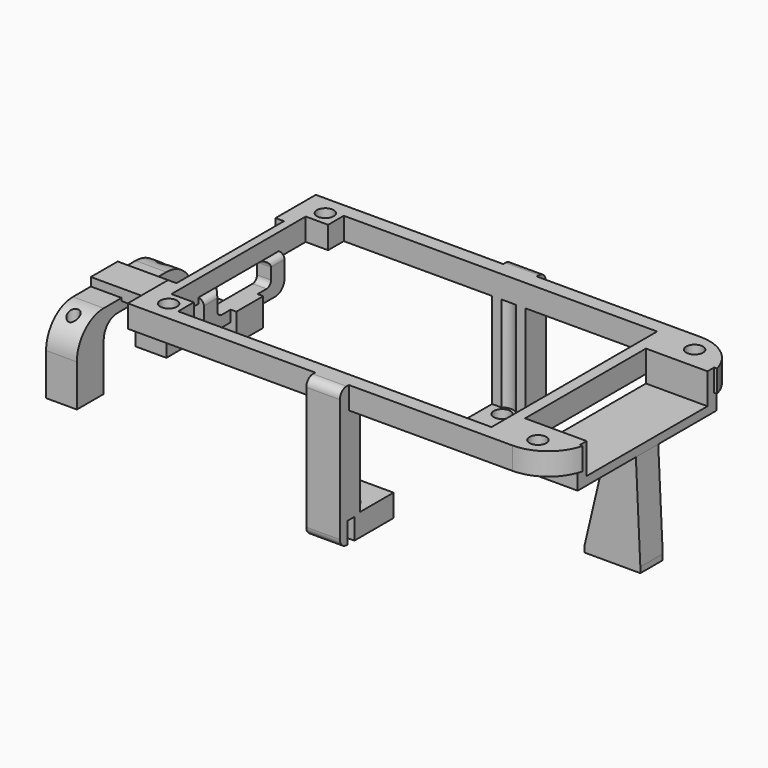
from build123d import *

# Parameters (mm, degrees)
BOX246_W               = 7
BOX246_H               = 1.5
BOX246_DEPTH           = 4.5
BOX244_W               = 7
BOX244_H               = 1.5
BOX244_DEPTH           = 4.5
BOX245_W               = 6
BOX245_H               = 2
BOX245_DEPTH           = 25
FILLET124_R            = 1.5
BOX243_W               = 6
BOX243_H               = 2
BOX243_DEPTH           = 25
FILLET125_R            = 1.5
BOX242_W               = 10
BOX242_H               = 24
BOX242_DEPTH           = 11
BOX148_W               = 10
BOX148_H               = 12
BOX148_DEPTH           = 4
FILLET092_R            = 1
CYLINDER225_R          = 1
CYLINDER225_DEPTH      = 17
BOX132_W               = 10
BOX132_H               = 5
BOX132_DEPTH           = 18
CHAMFER021_1_SIZE2     = 4
CHAMFER021_1_SIZE      = 17
CHAMFER021_2_SIZE2     = 0.8
CHAMFER021_2_SIZE      = 17
BOX116_W               = 56
BOX116_H               = 37
BOX116_DEPTH           = 6
BOX130_W               = 60
BOX130_H               = 30
BOX130_DEPTH           = 6
CYLINDER224_R          = 1.5
CYLINDER224_DEPTH      = 12
BOX131_W               = 12
BOX131_H               = 30
BOX131_DEPTH           = 6
CYLINDER222_R          = 1.5
CYLINDER222_DEPTH      = 12
CYLINDER221_R          = 1.5
CYLINDER221_DEPTH      = 12
CYLINDER223_R          = 1.5
CYLINDER223_DEPTH      = 12
BOX134_W               = 25
BOX134_H               = 45
BOX134_DEPTH           = 6
BOX097_W               = 100
BOX097_H               = 42
BOX097_DEPTH           = 4
FILLET082_R            = 8
CYLINDER226_R          = 1.5
CYLINDER226_DEPTH      = 21
BOX138_W               = 8
BOX138_H               = 10
BOX138_DEPTH           = 21
BOX137_W               = 8
BOX137_H               = 10
BOX137_DEPTH           = 21
CYLINDER228_R          = 2
CYLINDER228_DEPTH      = 21
BOX110_W               = 56
BOX110_H               = 1
BOX110_DEPTH           = 3
BOX136_W               = 6
BOX136_H               = 10
BOX136_DEPTH           = 21
CYLINDER227_R          = 1.5
CYLINDER227_DEPTH      = 21
BOX141_W               = 8
BOX141_H               = 10
BOX141_DEPTH           = 21
BOX140_W               = 8
BOX140_H               = 10
BOX140_DEPTH           = 21
CYLINDER229_R          = 2
CYLINDER229_DEPTH      = 21
BOX139_W               = 56
BOX139_H               = 1
BOX139_DEPTH           = 3
BOX142_W               = 6
BOX142_H               = 10
BOX142_DEPTH           = 21
CUT100_PLACEMENT_ANGLE = 180
BOX143_W               = 14
BOX143_H               = 27
BOX143_DEPTH           = 8
BOX144_W               = 11
BOX144_H               = 31
BOX144_DEPTH           = 7
CYLINDER233_R          = 1
CYLINDER233_DEPTH      = 19
CYLINDER232_R          = 1
CYLINDER232_DEPTH      = 19
BOX152_W               = 8.5
BOX152_H               = 14
BOX152_DEPTH           = 11.5
FILLET095_R            = 3
BOX151_W               = 5.5
BOX151_H               = 26
BOX151_DEPTH           = 13.5
FILLET093_R            = 6
BOX150_W               = 24
BOX150_H               = 6
BOX150_DEPTH           = 2
BOX147_W               = 4
BOX147_H               = 18
BOX147_DEPTH           = 6
FILLET090_R            = 2
BOX149_W               = 5
BOX149_H               = 6
BOX149_DEPTH           = 6
FILLET094_R            = 1


with BuildPart() as obj1:
    # Box246 → Box246 (new body)
    with BuildSketch(Plane(origin=(-12, 19.75, -7.75), x_dir=(1, 0, 0), z_dir=(0, 0, 1))):
        with Locations((3.5, 0.75)):
            Rectangle(BOX246_W, BOX246_H)
    extrude(amount=BOX246_DEPTH)


with BuildPart() as fusion218:
    # Box244 → Box244 (new body)
    with BuildSketch(Plane(origin=(-12, -21.25, -7.75), x_dir=(1, 0, 0), z_dir=(0, 0, 1))):
        with Locations((3.5, 0.75)):
            Rectangle(BOX244_W, BOX244_H)
    extrude(amount=BOX244_DEPTH)

    # Fusion218: union obj1
    add(obj1.part)


with BuildPart() as fillet124:
    # Box245 → Box245 (new body)
    with BuildSketch(Plane(origin=(-11.5, 21, -7), x_dir=(1, 0, 0), z_dir=(0, 0, 1))):
        with Locations((3, 1)):
            Rectangle(BOX245_W, BOX245_H)
    extrude(amount=BOX245_DEPTH)

    # Fillet124
    fillet124_edges = [fillet124.edges().sort_by_distance(p)[0] for p in [
        (-8.5, 23, -7),
        (-8.5, 23, 18),
    ]]
    fillet(fillet124_edges, radius=FILLET124_R)


with BuildPart() as fillet125:
    # Box243 → Box243 (new body)
    with BuildSketch(Plane(origin=(-11.5, -23, -7), x_dir=(1, 0, 0), z_dir=(0, 0, 1))):
        with Locations((3, 1)):
            Rectangle(BOX243_W, BOX243_H)
    extrude(amount=BOX243_DEPTH)

    # Fillet125
    fillet125_edges = [fillet125.edges().sort_by_distance(p)[0] for p in [
        (-8.5, -23, -7),
        (-8.5, -23, 18),
    ]]
    fillet(fillet125_edges, radius=FILLET125_R)


with BuildPart() as obj2:
    # Box242 → Box242 (new body)
    with BuildSketch(Plane(origin=(-53.5, -12, 8), x_dir=(1, 0, 0), z_dir=(0, 0, 1))):
        with Locations((5, 12)):
            Rectangle(BOX242_W, BOX242_H)
    extrude(amount=BOX242_DEPTH)


with BuildPart() as fillet092:
    # Box148 → Box148 (new body)
    with BuildSketch(Plane(origin=(-51, -6, 12), x_dir=(1, 0, 0), z_dir=(0, 0, 1))):
        with Locations((5, 6)):
            Rectangle(BOX148_W, BOX148_H)
    extrude(amount=BOX148_DEPTH)

    # Fillet092
    fillet092_edges = [fillet092.edges().sort_by_distance(p)[0] for p in [
        (-46, -6, 12),
        (-46, -6, 16),
        (-46, 6, 12),
        (-46, 6, 16),
    ]]
    fillet(fillet092_edges, radius=FILLET092_R)


with BuildPart() as fillet092_1:
    # Fillet092 placement: moved
    add(fillet092.part.moved(Location((2, 0, -1))))


with BuildPart() as zylinder225:
    # Cylinder225 → Cylinder225 (new body)
    with BuildSketch(Plane(origin=(28.75, 0, -10), x_dir=(1, 0, 0), z_dir=(0, 0, 1))):
        Circle(CYLINDER225_R)
    extrude(amount=CYLINDER225_DEPTH)


with BuildPart() as cut098:
    # Box132 → Box132 (new body)
    with BuildSketch(Plane(origin=(21.8, -2.5, -7), x_dir=(1, 0, 0), z_dir=(0, 0, 1))):
        with Locations((5, 2.5)):
            Rectangle(BOX132_W, BOX132_H)
    extrude(amount=BOX132_DEPTH)

    # Chamfer021 1
    chamfer021_1_edges = [cut098.edges().sort_by_distance(p)[0] for p in [
        (21.8, 0, 11),
    ]]
    chamfer021_1_side = cut098.faces().sort_by_distance((21.8, 0, 2))[0]
    chamfer(chamfer021_1_edges, length=CHAMFER021_1_SIZE, length2=CHAMFER021_1_SIZE2, reference=chamfer021_1_side)

    # Chamfer021 2
    chamfer021_2_edges = [cut098.edges().sort_by_distance(p)[0] for p in [
        (31.8, 0, 11),
    ]]
    chamfer021_2_side = cut098.faces().sort_by_distance((31.8, 0, 2))[0]
    chamfer(chamfer021_2_edges, length=CHAMFER021_2_SIZE, length2=CHAMFER021_2_SIZE2, reference=chamfer021_2_side)

    # Cut098: cut Zylinder225
    add(zylinder225.part, mode=Mode.SUBTRACT)


with BuildPart() as obj3:
    # Box116 → Box116 (new body)
    with BuildSketch(Plane(origin=(-38, -18.5, 13), x_dir=(1, 0, 0), z_dir=(0, 0, 1))):
        with Locations((28, 18.5)):
            Rectangle(BOX116_W, BOX116_H)
    extrude(amount=BOX116_DEPTH)


with BuildPart() as obj4:
    # Box130 → Box130 (new body)
    with BuildSketch(Plane(origin=(-42, -15, 13), x_dir=(1, 0, 0), z_dir=(0, 0, 1))):
        with Locations((30, 15)):
            Rectangle(BOX130_W, BOX130_H)
    extrude(amount=BOX130_DEPTH)


with BuildPart() as zylinder224:
    # Cylinder224 → Cylinder224 (new body)
    with BuildSketch(Plane(origin=(25.5, 17.5, 8), x_dir=(1, 0, 0), z_dir=(0, 0, 1))):
        Circle(CYLINDER224_R)
    extrude(amount=CYLINDER224_DEPTH)


with BuildPart() as obj5:
    # Box131 → Box131 (new body)
    with BuildSketch(Plane(origin=(20, -15, 13), x_dir=(1, 0, 0), z_dir=(0, 0, 1))):
        with Locations((6, 15)):
            Rectangle(BOX131_W, BOX131_H)
    extrude(amount=BOX131_DEPTH)


with BuildPart() as zylinder222:
    # Cylinder222 → Cylinder222 (new body)
    with BuildSketch(Plane(origin=(-40.5, -17.5, 8), x_dir=(1, 0, 0), z_dir=(0, 0, 1))):
        Circle(CYLINDER222_R)
    extrude(amount=CYLINDER222_DEPTH)


with BuildPart() as zylinder221:
    # Cylinder221 → Cylinder221 (new body)
    with BuildSketch(Plane(origin=(-40.5, 17.5, 8), x_dir=(1, 0, 0), z_dir=(0, 0, 1))):
        Circle(CYLINDER221_R)
    extrude(amount=CYLINDER221_DEPTH)


with BuildPart() as zylinder223:
    # Cylinder223 → Cylinder223 (new body)
    with BuildSketch(Plane(origin=(25.5, -17.5, 8), x_dir=(1, 0, 0), z_dir=(0, 0, 1))):
        Circle(CYLINDER223_R)
    extrude(amount=CYLINDER223_DEPTH)


with BuildPart() as fusion142:
    # Box134 → Box134 (new body)
    with BuildSketch(Plane(origin=(-70, -22.5, 13), x_dir=(1, 0, 0), z_dir=(0, 0, 1))):
        with Locations((12.5, 22.5)):
            Rectangle(BOX134_W, BOX134_H)
    extrude(amount=BOX134_DEPTH)

    # Fusion142: union obj3, obj4, Zylinder224, obj5, Zylinder222, Zylinder221, Zylinder223
    add(obj3.part)
    add(obj4.part)
    add(zylinder224.part)
    add(obj5.part)
    add(zylinder222.part)
    add(zylinder221.part)
    add(zylinder223.part)


with BuildPart() as cut097:
    # Box097 → Box097 (new body)
    with BuildSketch(Plane(origin=(-68.25, -21, 14), x_dir=(1, 0, 0), z_dir=(0, 0, 1))):
        with Locations((50, 21)):
            Rectangle(BOX097_W, BOX097_H)
    extrude(amount=BOX097_DEPTH)

    # Fillet082
    fillet082_edges = [cut097.edges().sort_by_distance(p)[0] for p in [
        (-68.25, -21, 16),
        (-68.25, 21, 16),
        (31.75, -21, 16),
        (31.75, 21, 16),
    ]]
    fillet(fillet082_edges, radius=FILLET082_R)

    # Cut097: cut Fusion142
    add(fusion142.part, mode=Mode.SUBTRACT)


with BuildPart() as zylinder226:
    # Cylinder226 → Cylinder226 (new body)
    with BuildSketch(Plane(origin=(-8.5, 17, -10), x_dir=(1, 0, 0), z_dir=(0, 0, 1))):
        Circle(CYLINDER226_R)
    extrude(amount=CYLINDER226_DEPTH)


with BuildPart() as obj6:
    # Box138 → Box138 (new body)
    with BuildSketch(Plane(origin=(-12.5, 8.5, -3), x_dir=(1, 0, 0), z_dir=(0, 0, 1))):
        with Locations((4, 5)):
            Rectangle(BOX138_W, BOX138_H)
    extrude(amount=BOX138_DEPTH)


with BuildPart() as obj7:
    # Box137 → Box137 (new body)
    with BuildSketch(Plane(origin=(-12.5, 5.5, -3), x_dir=(1, 0, 0), z_dir=(0, 0, 1))):
        with Locations((4, 5)):
            Rectangle(BOX137_W, BOX137_H)
    extrude(amount=BOX137_DEPTH)


with BuildPart() as zylinder228:
    # Cylinder228 → Cylinder228 (new body)
    with BuildSketch(Plane(origin=(-8.5, 17, -3), x_dir=(1, 0, 0), z_dir=(0, 0, 1))):
        Circle(CYLINDER228_R)
    extrude(amount=CYLINDER228_DEPTH)


with BuildPart() as fusion144:
    # Box110 → Box110 (new body)
    with BuildSketch(Plane(origin=(-43.5, 20, -7), x_dir=(1, 0, 0), z_dir=(0, 0, 1))):
        with Locations((28, 0.5)):
            Rectangle(BOX110_W, BOX110_H)
    extrude(amount=BOX110_DEPTH)

    # Fusion144: union Zylinder226, obj6, obj7, Zylinder228
    add(zylinder226.part)
    add(obj6.part)
    add(obj7.part)
    add(zylinder228.part)


with BuildPart() as cut099:
    # Box136 → Box136 (new body)
    with BuildSketch(Plane(origin=(-11.5, 11, -7), x_dir=(1, 0, 0), z_dir=(0, 0, 1))):
        with Locations((3, 5)):
            Rectangle(BOX136_W, BOX136_H)
    extrude(amount=BOX136_DEPTH)

    # Cut099: cut Fusion144
    add(fusion144.part, mode=Mode.SUBTRACT)


with BuildPart() as zylinder227:
    # Cylinder227 → Cylinder227 (new body)
    with BuildSketch(Plane(origin=(-8.5, 17, -10), x_dir=(1, 0, 0), z_dir=(0, 0, 1))):
        Circle(CYLINDER227_R)
    extrude(amount=CYLINDER227_DEPTH)


with BuildPart() as obj8:
    # Box141 → Box141 (new body)
    with BuildSketch(Plane(origin=(-12.5, 8.5, -3), x_dir=(1, 0, 0), z_dir=(0, 0, 1))):
        with Locations((4, 5)):
            Rectangle(BOX141_W, BOX141_H)
    extrude(amount=BOX141_DEPTH)


with BuildPart() as obj9:
    # Box140 → Box140 (new body)
    with BuildSketch(Plane(origin=(-12.5, 5.5, -3), x_dir=(1, 0, 0), z_dir=(0, 0, 1))):
        with Locations((4, 5)):
            Rectangle(BOX140_W, BOX140_H)
    extrude(amount=BOX140_DEPTH)


with BuildPart() as zylinder229:
    # Cylinder229 → Cylinder229 (new body)
    with BuildSketch(Plane(origin=(-8.5, 17, -3), x_dir=(1, 0, 0), z_dir=(0, 0, 1))):
        Circle(CYLINDER229_R)
    extrude(amount=CYLINDER229_DEPTH)


with BuildPart() as fusion145:
    # Box139 → Box139 (new body)
    with BuildSketch(Plane(origin=(-43.5, 20, -7), x_dir=(1, 0, 0), z_dir=(0, 0, 1))):
        with Locations((28, 0.5)):
            Rectangle(BOX139_W, BOX139_H)
    extrude(amount=BOX139_DEPTH)

    # Fusion145: union Zylinder227, obj8, obj9, Zylinder229
    add(zylinder227.part)
    add(obj8.part)
    add(obj9.part)
    add(zylinder229.part)


with BuildPart() as cut100:
    # Box142 → Box142 (new body)
    with BuildSketch(Plane(origin=(-11.5, 11, -7), x_dir=(1, 0, 0), z_dir=(0, 0, 1))):
        with Locations((3, 5)):
            Rectangle(BOX142_W, BOX142_H)
    extrude(amount=BOX142_DEPTH)

    # Cut100: cut Fusion145
    add(fusion145.part, mode=Mode.SUBTRACT)


with BuildPart() as cut100_1:
    # Cut100 placement: moved
    add(cut100.part.moved(Location((-17, 0, 0))).rotate(Axis((-17, 0, 0), (0, 0, 1)), CUT100_PLACEMENT_ANGLE))


with BuildPart() as obj10:
    # Box143 → Box143 (new body)
    with BuildSketch(Plane(origin=(19, -13.5, 12.5), x_dir=(1, 0, 0), z_dir=(0, 0, 1))):
        with Locations((7, 13.5)):
            Rectangle(BOX143_W, BOX143_H)
    extrude(amount=BOX143_DEPTH)


with BuildPart() as cut101:
    # Box144 → Box144 (new body)
    with BuildSketch(Plane(origin=(20, -15.5, 11), x_dir=(1, 0, 0), z_dir=(0, 0, 1))):
        with Locations((5.5, 15.5)):
            Rectangle(BOX144_W, BOX144_H)
    extrude(amount=BOX144_DEPTH)

    # Cut101: cut obj10
    add(obj10.part, mode=Mode.SUBTRACT)


with BuildPart() as zylinder233:
    # Cylinder233 → Cylinder233 (new body)
    with BuildSketch(Plane(origin=(-63.5, 10, -10), x_dir=(1, 0, 0), z_dir=(0, 0, 1))):
        Circle(CYLINDER233_R)
    extrude(amount=CYLINDER233_DEPTH)


with BuildPart() as zylinder232:
    # Cylinder232 → Cylinder232 (new body)
    with BuildSketch(Plane(origin=(-63.5, -10, -10), x_dir=(1, 0, 0), z_dir=(0, 0, 1))):
        Circle(CYLINDER232_R)
    extrude(amount=CYLINDER232_DEPTH)


with BuildPart() as fusion149:
    # Box152 → Box152 (new body)
    with BuildSketch(Plane(origin=(-67, -10, -7), x_dir=(1, 0, 0), z_dir=(0, 0, 1))):
        with Locations((4.25, 7)):
            Rectangle(BOX152_W, BOX152_H)
    extrude(amount=BOX152_DEPTH)

    # Fillet095
    fillet095_edges = [fusion149.edges().sort_by_distance(p)[0] for p in [
        (-62.75, -10, 4.5),
        (-62.75, 4, 4.5),
    ]]
    fillet(fillet095_edges, radius=FILLET095_R)


with BuildPart() as fusion149_1:
    # Fillet095 placement: moved
    add(fusion149.part.moved(Location((0, 3, 0))))

    # Fusion149: union Zylinder233, Zylinder232
    add(zylinder233.part)
    add(zylinder232.part)


with BuildPart() as cut104:
    # Box151 → Box151 (new body)
    with BuildSketch(Plane(origin=(-66, -13, -7), x_dir=(1, 0, 0), z_dir=(0, 0, 1))):
        with Locations((2.75, 13)):
            Rectangle(BOX151_W, BOX151_H)
    extrude(amount=BOX151_DEPTH)

    # Fillet093
    fillet093_edges = [cut104.edges().sort_by_distance(p)[0] for p in [
        (-63.25, -13, 6.5),
        (-63.25, 13, 6.5),
    ]]
    fillet(fillet093_edges, radius=FILLET093_R)

    # Cut104: cut Fusion149
    add(fusion149_1.part, mode=Mode.SUBTRACT)


with BuildPart() as obj11:
    # Box150 → Box150 (new body)
    with BuildSketch(Plane(origin=(-66, -3, 6), x_dir=(1, 0, 0), z_dir=(0, 0, 1))):
        with Locations((12, 3)):
            Rectangle(BOX150_W, BOX150_H)
    extrude(amount=BOX150_DEPTH)


with BuildPart() as fillet090:
    # Box147 → Box147 (new body)
    with BuildSketch(Plane(origin=(-45, -9, 9), x_dir=(1, 0, 0), z_dir=(0, 0, 1))):
        with Locations((2, 9)):
            Rectangle(BOX147_W, BOX147_H)
    extrude(amount=BOX147_DEPTH)

    # Fillet090
    fillet090_edges = [fillet090.edges().sort_by_distance(p)[0] for p in [
        (-43, -9, 9),
        (-43, 9, 9),
    ]]
    fillet(fillet090_edges, radius=FILLET090_R)


with BuildPart() as cut152:
    # Box149 → Box149 (new body)
    with BuildSketch(Plane(origin=(-45, -3, 6), x_dir=(1, 0, 0), z_dir=(0, 0, 1))):
        with Locations((2.5, 3)):
            Rectangle(BOX149_W, BOX149_H)
    extrude(amount=BOX149_DEPTH)

    # Fusion148: union obj11, Fillet090
    add(obj11.part)
    add(fillet090.part)

    # Fillet094
    fillet094_edges = [cut152.edges().sort_by_distance(p)[0] for p in [
        (-41, 0, 15),
    ]]
    fillet(fillet094_edges, radius=FILLET094_R)

    # Fusion150: union Cut104
    add(cut104.part)

    # Fusion157: union Cut098, Cut097, Cut099, Cut100, Cut101
    add(cut098.part)
    add(cut097.part)
    add(cut099.part)
    add(cut100_1.part)
    add(cut101.part)

    # Cut108: cut Fillet092
    add(fillet092_1.part, mode=Mode.SUBTRACT)

    # Cut151: cut obj2
    add(obj2.part, mode=Mode.SUBTRACT)

    # Fusion219: union Fillet124, Fillet125
    add(fillet124.part)
    add(fillet125.part)

    # Cut152: cut Fusion218
    add(fusion218.part, mode=Mode.SUBTRACT)


solid = cut152.part
